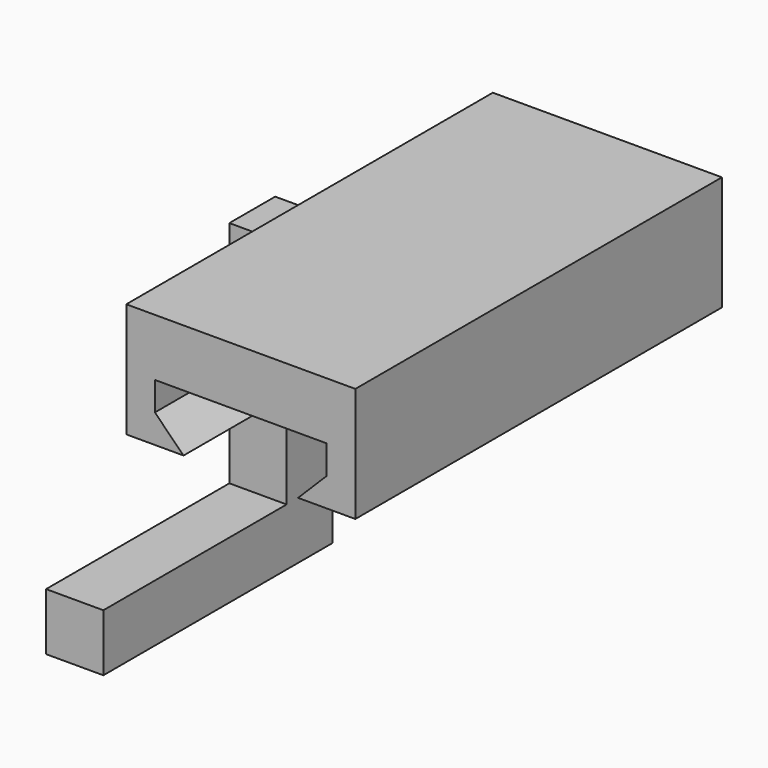
from build123d import *

# Parameters (mm, degrees)
F1_DEPTH  = 50.8
F3_DEPTH  = 6.35
F3_FACE_W = 6.35
F3_FACE_H = 6.35
F4_DEPTH  = 25.4
F5_W      = 6.35
F5_H      = 6.35
F6_DEPTH  = 25.4


with BuildPart() as f1:
    # F0 (on Front) → F1 (new body)
    with BuildSketch(Plane.XZ):
        Polygon((-12.7, 0), (-6.35, 0), (-9.525, 3.175), (-9.525, 6.35), (0, 6.35), (9.525, 6.35), (9.525, 3.175), (6.35, 0), (12.7, 0), (12.7, 12.7), (0, 12.7), (-12.7, 12.7), align=None)
    extrude(amount=-F1_DEPTH)

    # F2 (on face) → F3 (join)
    with BuildSketch(Plane(origin=(-12.7, 0, 0), x_dir=(0, -1, 0), z_dir=(-1, 0, 0))):
        Polygon((-22.225, 9.525), (-25.4, 9.525), (-28.575, 9.525), (-28.575, 3.175), (-22.225, 3.175), align=None)
    extrude(amount=F3_DEPTH)

    # F3_face (on face) → F4 (join)
    with BuildSketch(Plane(origin=(-15.875, 25.4, 3.175), x_dir=(1, 0, 0), z_dir=(0, 0, -1))):
        Rectangle(F3_FACE_W, F3_FACE_H)
    extrude(amount=F4_DEPTH)

    # F5 (on face) → F6 (join)
    with BuildSketch(Plane.XZ.offset(-22.225)):
        with Locations((-15.875, -19.05)):
            Rectangle(F5_W, F5_H)
    extrude(amount=F6_DEPTH)


solid = f1.part
